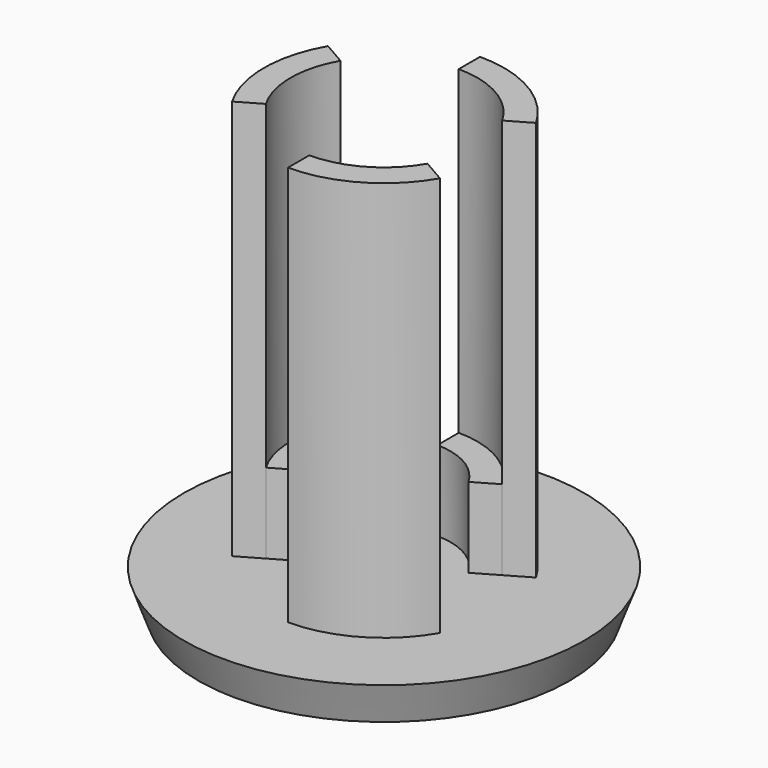
from build123d import *

# Parameters (mm, degrees)
F0_R      = 7.5
F1_DEPTH  = 1.5
F1_TAPER  = 20
F2_DEPTH  = 3
F3_DEPTH  = 15
F1_FACE_R = 6.9540446486
F4_DEPTH  = 1.5
F4_TAPER  = 75


with BuildPart() as f1:
    # F0 (on Top) → F1 (new body)
    with BuildSketch(Plane.XY):
        Circle(F0_R)
        with BuildLine():
            ThreePointArc((0, 4.5), (2.25, 3.897114317), (3.897114317, 2.25))
            ThreePointArc((3.897114317, 2.25), (4.3466662183, 1.164685703), (4.5, 0))
            ThreePointArc((4.5, 0), (4.3466662183, -1.164685703), (3.897114317, -2.25))
            ThreePointArc((3.897114317, -2.25), (2.25, -3.897114317), (0, -4.5))
            ThreePointArc((0, -4.5), (-2.25, -3.897114317), (-3.897114317, -2.25))
            ThreePointArc((-3.897114317, -2.25), (-4.5, 0), (-3.897114317, 2.25))
            ThreePointArc((-3.897114317, 2.25), (-2.25, 3.897114317), (0, 4.5))
        make_face(mode=Mode.SUBTRACT)
        with BuildLine():
            Line((3.897114317, -2.25), (3.0310889132, -1.75))
            ThreePointArc((3.0310889132, -1.75), (1.75, -3.0310889132), (0, -3.5))
            Line((0, -3.5), (0, -4.5))
            ThreePointArc((0, -4.5), (2.25, -3.897114317), (3.897114317, -2.25))
        make_face()
        with BuildLine():
            ThreePointArc((0, -3.5), (1.75, -3.0310889132), (3.0310889132, -1.75))
            Line((3.0310889132, -1.75), (2.1650635095, -1.25))
            ThreePointArc((2.1650635095, -1.25), (1.25, -2.1650635095), (0, -2.5))
            Line((0, -2.5), (0, -3.5))
        make_face()
        with BuildLine():
            ThreePointArc((-3.0310889132, -1.75), (-1.75, -3.0310889132), (0, -3.5))
            Line((0, -3.5), (0, -2.5))
            ThreePointArc((0, -2.5), (-1.25, -2.1650635095), (-2.1650635095, -1.25))
            Line((-2.1650635095, -1.25), (-3.0310889132, -1.75))
        make_face()
        with BuildLine():
            Line((0, -4.5), (0, -3.5))
            ThreePointArc((0, -3.5), (-1.75, -3.0310889132), (-3.0310889132, -1.75))
            Line((-3.0310889132, -1.75), (-3.897114317, -2.25))
            ThreePointArc((-3.897114317, -2.25), (-2.25, -3.897114317), (0, -4.5))
        make_face()
        with BuildLine():
            ThreePointArc((-3.0310889132, -1.75), (-3.5, 0), (-3.0310889132, 1.75))
            Line((-3.0310889132, 1.75), (-3.897114317, 2.25))
            ThreePointArc((-3.897114317, 2.25), (-4.5, 0), (-3.897114317, -2.25))
            Line((-3.897114317, -2.25), (-3.0310889132, -1.75))
        make_face()
        with BuildLine():
            Line((-2.1650635095, 1.25), (-3.0310889132, 1.75))
            ThreePointArc((-3.0310889132, 1.75), (-3.5, 0), (-3.0310889132, -1.75))
            Line((-3.0310889132, -1.75), (-2.1650635095, -1.25))
            ThreePointArc((-2.1650635095, -1.25), (-2.5, 0), (-2.1650635095, 1.25))
        make_face()
        with BuildLine():
            ThreePointArc((-3.0310889132, 1.75), (-1.75, 3.0310889132), (0, 3.5))
            Line((0, 3.5), (0, 4.5))
            ThreePointArc((0, 4.5), (-2.25, 3.897114317), (-3.897114317, 2.25))
            Line((-3.897114317, 2.25), (-3.0310889132, 1.75))
        make_face()
        with BuildLine():
            Line((0, 2.5), (0, 3.5))
            ThreePointArc((0, 3.5), (-1.75, 3.0310889132), (-3.0310889132, 1.75))
            Line((-3.0310889132, 1.75), (-2.1650635095, 1.25))
            ThreePointArc((-2.1650635095, 1.25), (-1.25, 2.1650635095), (0, 2.5))
        make_face()
        with BuildLine():
            ThreePointArc((0, 3.5), (1.75, 3.0310889132), (3.0310889132, 1.75))
            Line((3.0310889132, 1.75), (3.897114317, 2.25))
            ThreePointArc((3.897114317, 2.25), (2.25, 3.897114317), (0, 4.5))
            Line((0, 4.5), (0, 3.5))
        make_face()
        with BuildLine():
            Line((2.1650635095, 1.25), (3.0310889132, 1.75))
            ThreePointArc((3.0310889132, 1.75), (1.75, 3.0310889132), (0, 3.5))
            Line((0, 3.5), (0, 2.5))
            ThreePointArc((0, 2.5), (1.25, 2.1650635095), (2.1650635095, 1.25))
        make_face()
        with BuildLine():
            ThreePointArc((3.0310889132, 1.75), (3.380740392, 0.9058666579), (3.5, 0))
            ThreePointArc((3.5, 0), (3.380740392, -0.9058666579), (3.0310889132, -1.75))
            Line((3.0310889132, -1.75), (3.897114317, -2.25))
            ThreePointArc((3.897114317, -2.25), (4.3466662183, -1.164685703), (4.5, 0))
            ThreePointArc((4.5, 0), (4.3466662183, 1.164685703), (3.897114317, 2.25))
            Line((3.897114317, 2.25), (3.0310889132, 1.75))
        make_face()
        with BuildLine():
            ThreePointArc((3.0310889132, -1.75), (3.380740392, -0.9058666579), (3.5, 0))
            ThreePointArc((3.5, 0), (3.380740392, 0.9058666579), (3.0310889132, 1.75))
            Line((3.0310889132, 1.75), (2.1650635095, 1.25))
            ThreePointArc((2.1650635095, 1.25), (2.4148145657, 0.6470476128), (2.5, 0))
            ThreePointArc((2.5, 0), (2.4148145657, -0.6470476128), (2.1650635095, -1.25))
            Line((2.1650635095, -1.25), (3.0310889132, -1.75))
        make_face()
        with BuildLine():
            ThreePointArc((2.5, 0), (2.4148145657, 0.6470476128), (2.1650635095, 1.25))
            ThreePointArc((2.1650635095, 1.25), (1.25, 2.1650635095), (0, 2.5))
            ThreePointArc((0, 2.5), (-1.25, 2.1650635095), (-2.1650635095, 1.25))
            ThreePointArc((-2.1650635095, 1.25), (-2.5, 0), (-2.1650635095, -1.25))
            ThreePointArc((-2.1650635095, -1.25), (-1.25, -2.1650635095), (0, -2.5))
            ThreePointArc((0, -2.5), (1.25, -2.1650635095), (2.1650635095, -1.25))
            ThreePointArc((2.1650635095, -1.25), (2.4148145657, -0.6470476128), (2.5, 0))
        make_face()
    extrude(amount=-F1_DEPTH, taper=F1_TAPER)

    # F0 (on Top) → F2 (join)
    with BuildSketch(Plane.XY):
        with BuildLine():
            Line((2.1650635095, 1.25), (3.0310889132, 1.75))
            ThreePointArc((3.0310889132, 1.75), (1.75, 3.0310889132), (0, 3.5))
            Line((0, 3.5), (0, 2.5))
            ThreePointArc((0, 2.5), (1.25, 2.1650635095), (2.1650635095, 1.25))
        make_face()
        with BuildLine():
            ThreePointArc((0, -3.5), (1.75, -3.0310889132), (3.0310889132, -1.75))
            Line((3.0310889132, -1.75), (2.1650635095, -1.25))
            ThreePointArc((2.1650635095, -1.25), (1.25, -2.1650635095), (0, -2.5))
            Line((0, -2.5), (0, -3.5))
        make_face()
        with BuildLine():
            Line((-2.1650635095, 1.25), (-3.0310889132, 1.75))
            ThreePointArc((-3.0310889132, 1.75), (-3.5, 0), (-3.0310889132, -1.75))
            Line((-3.0310889132, -1.75), (-2.1650635095, -1.25))
            ThreePointArc((-2.1650635095, -1.25), (-2.5, 0), (-2.1650635095, 1.25))
        make_face()
    extrude(amount=F2_DEPTH)

    # F0 (on Top) → F3 (join)
    with BuildSketch(Plane.XY):
        with BuildLine():
            ThreePointArc((-3.0310889132, -1.75), (-3.5, 0), (-3.0310889132, 1.75))
            Line((-3.0310889132, 1.75), (-3.897114317, 2.25))
            ThreePointArc((-3.897114317, 2.25), (-4.5, 0), (-3.897114317, -2.25))
            Line((-3.897114317, -2.25), (-3.0310889132, -1.75))
        make_face()
        with BuildLine():
            Line((3.897114317, -2.25), (3.0310889132, -1.75))
            ThreePointArc((3.0310889132, -1.75), (1.75, -3.0310889132), (0, -3.5))
            Line((0, -3.5), (0, -4.5))
            ThreePointArc((0, -4.5), (2.25, -3.897114317), (3.897114317, -2.25))
        make_face()
        with BuildLine():
            ThreePointArc((0, 3.5), (1.75, 3.0310889132), (3.0310889132, 1.75))
            Line((3.0310889132, 1.75), (3.897114317, 2.25))
            ThreePointArc((3.897114317, 2.25), (2.25, 3.897114317), (0, 4.5))
            Line((0, 4.5), (0, 3.5))
        make_face()
    extrude(amount=F3_DEPTH)


with BuildPart() as f4:
    # F1_face (on face) → F4 (new body)
    with BuildSketch(Plane(origin=(0, 0, -1.5), x_dir=(1, 0, 0), z_dir=(0, 0, -1))):
        Circle(F1_FACE_R)
    extrude(amount=F4_DEPTH, taper=F4_TAPER)


solid = Compound([f1.part, f4.part])
